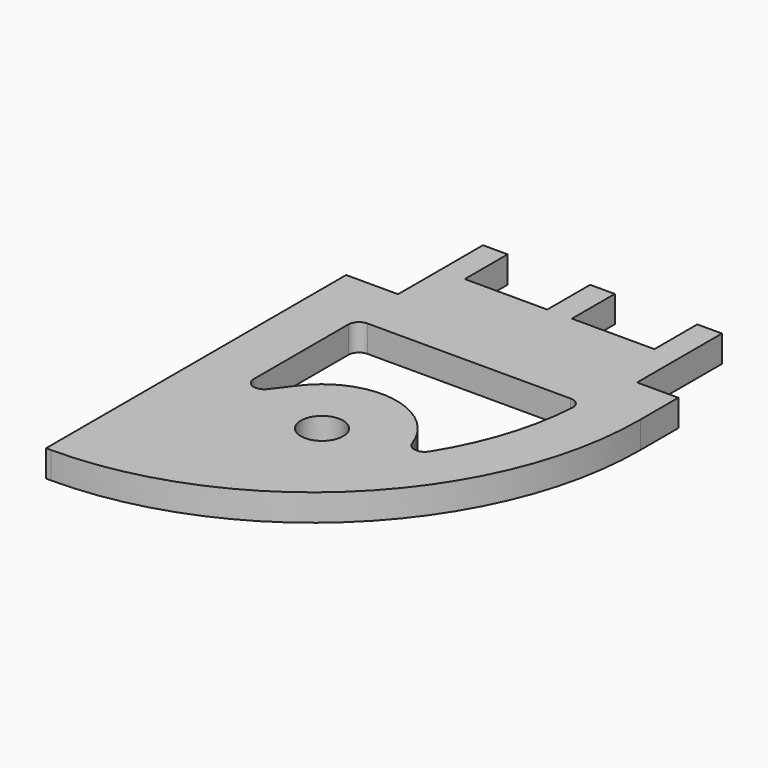
from build123d import *

# Parameters (mm, degrees)
F0_R     = 5.0165
F1_DEPTH = 6.35
F2_R     = 2.54


with BuildPart() as f1:
    # F0 (on Top) → F1 (new body)
    with BuildSketch(Plane.XY):
        with BuildLine():
            Line((2.651322, 46.952514), (2.651322, 34.252514))
            Line((2.651322, 34.252514), (-16.906678, 34.252514))
            Line((-16.906678, 34.252514), (-16.906678, 46.952514))
            Line((-16.906678, 46.952514), (-22.748678, 46.952514))
            Line((-22.748678, 46.952514), (-22.748678, 21.806514))
            Line((-22.748678, 21.806514), (-35.067678, 21.806514))
            Line((-35.067678, 21.806514), (-35.067678, -67.093486))
            Line((-35.067678, -67.093486), (-33.954306, -67.093486))
            ThreePointArc((-33.954306, -67.093486), (20.936009, -44.357173), (43.672322, 10.533142))
            Line((43.672322, 10.533142), (43.672322, 21.806514))
            Line((43.672322, 21.806514), (33.893322, 21.806514))
            Line((33.893322, 21.806514), (33.893322, 46.952514))
            Line((33.893322, 46.952514), (28.051322, 46.952514))
            Line((28.051322, 46.952514), (28.051322, 34.252514))
            Line((28.051322, 34.252514), (8.493322, 34.252514))
            Line((8.493322, 34.252514), (8.493322, 46.952514))
            Line((8.493322, 46.952514), (2.651322, 46.952514))
        make_face()
        with Locations((-0.142678, -28.993486)):
            Circle(F0_R, mode=Mode.SUBTRACT)
        with BuildLine():
            Line((-22.367678, 9.106514), (30.972322, 9.106514))
            ThreePointArc((30.972322, 9.106514), (27.310121, -11.011515), (17.573822, -28.993486))
            ThreePointArc((17.573822, -28.993486), (5.499647, -12.199483), (-14.265259, -18.296427))
            Line((-14.265259, -18.296427), (-22.367678, -28.993486))
            Line((-22.367678, -28.993486), (-22.367678, 9.106514))
        make_face(mode=Mode.SUBTRACT)
    extrude(amount=F1_DEPTH)

    # F2
    f2_edges = [f1.edges().sort_by_distance(p)[0] for p in [
        (30.972322, 9.106514, 3.175),
        (-22.367678, 9.106514, 3.175),
        (17.573822, -28.993486, 3.175),
        (-22.367678, -28.993486, 3.175),
    ]]
    fillet(f2_edges, radius=F2_R)


solid = f1.part
